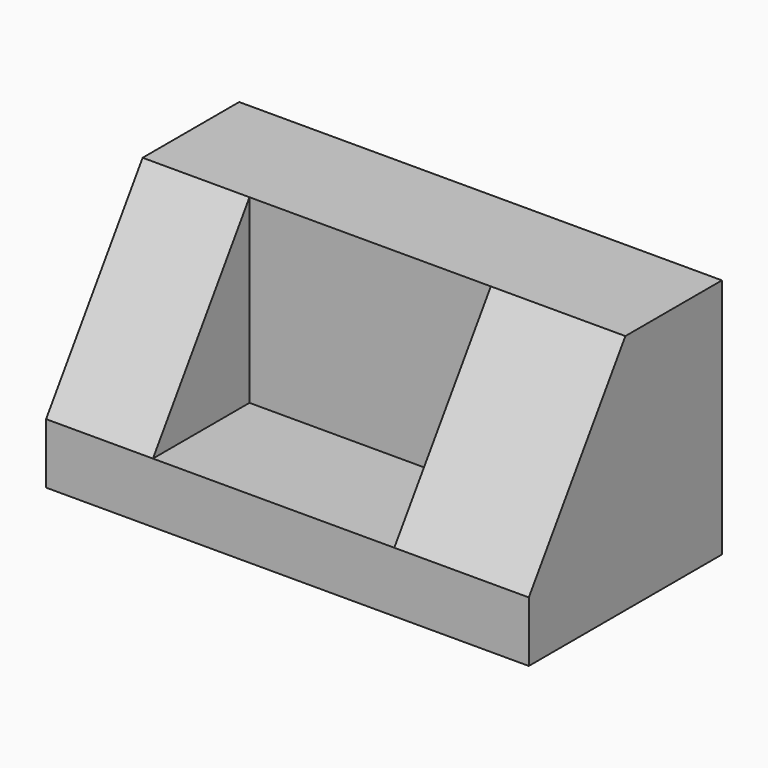
from build123d import *

# Parameters (mm, degrees)
F0_W     = 203.2
F0_H     = 50.8
F1_DEPTH = 101.6
F2_W     = 101.6
F2_H     = 25.4
F3_DEPTH = 203.2
F5_DEPTH = 203.2
F6_W     = 101.6
F6_H     = 50.8
F7_DEPTH = 101.6
F8_W     = 50.8
F8_H     = 25.4
F9_DEPTH = 101.6


with BuildPart() as f1:
    # F0 (on Top) → F1 (new body)
    with BuildSketch(Plane.XY):
        with Locations((37.09794, 48.318817)):
            Rectangle(F0_W, F0_H)
    extrude(amount=F1_DEPTH)

    # F2 (on face) → F3 (join)
    with BuildSketch(Plane(origin=(-64.50206, 0, 0), x_dir=(0, -1, 0), z_dir=(-1, 0, 0))):
        with Locations((-22.918817, 12.7)):
            Rectangle(F2_W, F2_H)
    extrude(amount=-F3_DEPTH)

    # F4 (on face) → F5 (join)
    with BuildSketch(Plane.YZ.offset(138.69794)):
        Polygon((22.918817, 101.6), (-27.881183, 25.4), (22.918817, 25.4), align=None)
    extrude(amount=-F5_DEPTH)

    # F6 (on Top) → F7 (cut)
    with BuildSketch(Plane.XY):
        with Locations((31.270749, -2.481183)):
            Rectangle(F6_W, F6_H)
    extrude(amount=F7_DEPTH, mode=Mode.SUBTRACT)

    # F8 (on face) → F9 (join)
    with BuildSketch(Plane.YZ.offset(-19.529251)):
        with Locations((-2.481183, 12.7)):
            Rectangle(F8_W, F8_H)
    extrude(amount=F9_DEPTH)


solid = f1.part
